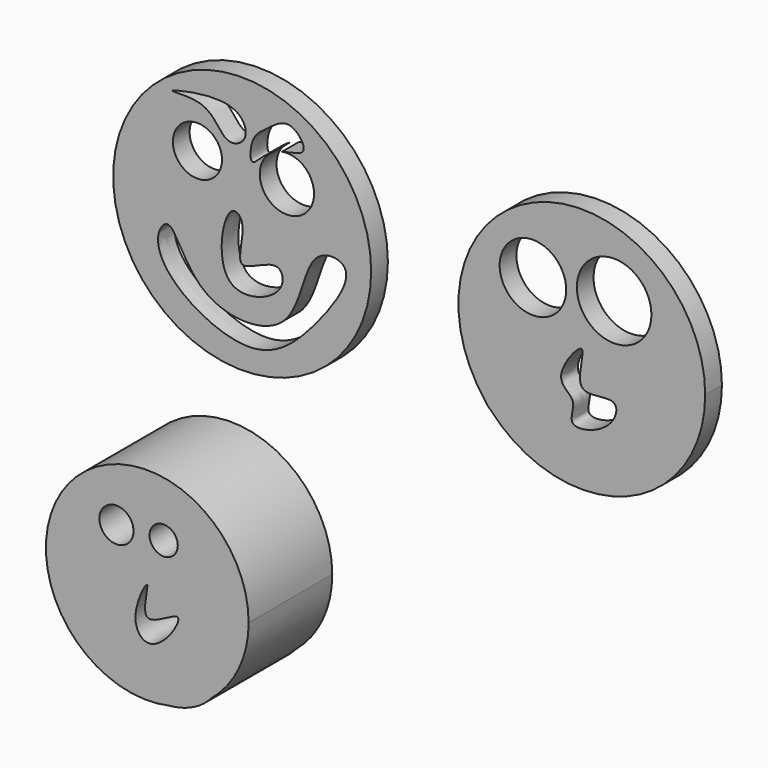
from build123d import *

# Parameters (mm, degrees)
F0_R     = 31.344620242
F0_R_2   = 5.9608346564
F1_DEPTH = 5.08
F2_R     = 8.0839661529
F2_R_2   = 9.0599704054
F3_DEPTH = 5.08
F4_R     = 4.1495553657
F4_R_2   = 3.4277283323
F5_DEPTH = 25.4


with BuildPart() as f1:
    # F0 (on Front) → F1 (new body)
    with BuildSketch(Plane.XZ):
        with Locations((-43.3764904737, 43.0745668709)):
            Circle(F0_R)
        with BuildLine():
            add(Edge.make_bspline(
                [(-63.7060776353, 34.2181138694), (-64.2475385526, 31.5744313854), (-60.9653740081, 23.7106953552), (-39.763106946, 13.1189450082), (-25.8152101721, 25.9599111261), (-14.0937532896, 42.9951370894), (-28.6111116451, 44.1775094088), (-28.9130609054, 20.7068919347), (-55.2767130819, 21.7639207371), (-60.2640850821, 40.0495008846), (-63.3702266873, 35.8579058472), (-63.7060776353, 34.2181138694)],
                knots=[0, 0, 0, 0, 0.0945447246, 0.2325769702, 0.3638224315, 0.4846381765, 0.5631081782, 0.6932315082, 0.827749096, 0.9413569209, 1, 1, 1, 1], degree=3))
        make_face(mode=Mode.SUBTRACT)
        with BuildLine():
            add(Edge.make_bspline(
                [(-43.3764904737, 43.0745668709), (-42.8318682053, 40.2460923234), (-46.6411439598, 30.2141343776), (-34.0210994444, 39.5406449456), (-32.2423066224, 30.1416863117), (-51.0284525604, 24.3154598866), (-47.6259900719, 47.6656528565), (-43.7067431857, 44.7897214731), (-43.3764904737, 43.0745668709)],
                knots=[0, 0, 0, 0, 0.170976366, 0.3408556962, 0.4668355041, 0.6704772589, 0.896321888, 1, 1, 1, 1], degree=3))
        make_face(mode=Mode.SUBTRACT)
        with Locations((-54.2457737029, 55.1515482366)):
            Circle(F0_R_2, mode=Mode.SUBTRACT)
        with BuildLine():
            add(Edge.make_bspline(
                [(-60.2842643857, 66.0208314657), (-60.1107834639, 66.4196465402), (-44.5466116357, 70.2867789582), (-41.0964462409, 61.1523820508), (-47.9605175036, 58.0409094503), (-50.8546259968, 67.1917166956), (-60.4105257065, 65.7305694731), (-60.2842643857, 66.0208314657)],
                knots=[0, 0, 0, 0, 0.268291344, 0.4514859458, 0.6013850432, 0.8047346124, 1, 1, 1, 1], degree=3))
        make_face(mode=Mode.SUBTRACT)
        with BuildLine():
            ThreePointArc((-33.7112318719, 61.6340417685), (-28.2921254108, 60.2216057144), (-25.9138471229, 55.1515482366))
            ThreePointArc((-25.9138471229, 55.1515482366), (-35.7755701881, 49.4252753332), (-35.860278308, 60.8286348256))
            add(Edge.make_bspline(
                [(-31.7020751536, 67.8323805332), (-33.68019312, 68.3764407949), (-37.4711253987, 65.1227105019), (-41.2593658879, 62.8197510601), (-41.7681046691, 54.4487049218), (-38.4544280806, 59.4979411468), (-35.860278308, 60.8286348256)],
                knots=[0, 0, 0, 0, 0.1710053831, 0.3251711552, 0.473830431, 0.6468987393, 0.6468987393, 0.6468987393, 0.6468987393], degree=3))
            add(Edge.make_bspline(
                [(-33.7112318719, 61.6340417685), (-31.3032859124, 62.3008733832), (-26.3263399688, 62.5681433433), (-29.8605678379, 67.3258935748), (-31.7020751536, 67.8323805332)],
                knots=[0.6922248826, 0.6922248826, 0.6922248826, 0.6922248826, 0.8408044063, 1, 1, 1, 1], degree=3))
        make_face(mode=Mode.SUBTRACT)
    extrude(amount=F1_DEPTH)


with BuildPart() as f3:
    # F2 (on Front) → F3 (new body)
    with BuildSketch(Plane.XZ):
        with BuildLine():
            ThreePointArc((17.0689116386, 22.7908349311), (50.0339169252, 15.1368753482), (69.1326096351, 43.0745668709))
            ThreePointArc((69.1326096351, 43.0745668709), (29.2455107261, 71.3746421251), (15.709500777, 24.3783512776))
            add(Edge.make_bspline(
                [(15.709500777, 24.3783512776), (13.9886718322, 27.6371143786), (16.1578343421, 33.5638101819), (19.2225277424, 35.0232459605)],
                knots=[0.9105023477, 0.9105023477, 0.9105023477, 0.9105023477, 1, 1, 1, 1], degree=3))
            add(Edge.make_bspline(
                [(19.2225277424, 35.0232459605), (22.3057148144, 36.4914885992), (30.4321798008, 30.272538021), (37.8403690916, 19.4848273104), (52.9263620672, 27.0670894141), (54.992545377, 32.3276788496), (60.7397003907, 39.6598489475), (66.3243458739, 26.518944605), (48.736352353, 18.103584846), (43.3890993335, 20.2889446518), (31.3480988785, 17.6881050826), (27.6348880369, 19.9706009761), (19.5707896294, 20.8180186211), (17.0689116386, 22.7908349311)],
                knots=[0, 0, 0, 0, 0.0900377195, 0.1834008338, 0.2818707686, 0.3499265188, 0.4154305076, 0.4920384294, 0.6001540328, 0.6679954856, 0.7563123889, 0.8182622336, 0.8935019829, 0.8935019829, 0.8935019829, 0.8935019829], degree=3))
        make_face()
        with BuildLine():
            add(Edge.make_bspline(
                [(39.1495451331, 43.0745668709), (38.3008606614, 43.628670546), (30.989640786, 34.4415064533), (38.678290816, 32.0849698118), (34.5070431615, 24.4689897974), (46.5833277739, 27.2676943148), (49.0935857226, 36.6963719209), (35.7037281431, 31.3075760704), (39.9527846681, 42.5501340657), (39.1495451331, 43.0745668709)],
                knots=[0, 0, 0, 0, 0.1631392249, 0.2878070632, 0.404889334, 0.5657519574, 0.6946873361, 0.8455964737, 1, 1, 1, 1], degree=3))
        make_face(mode=Mode.SUBTRACT)
        with Locations((27.2738486528, 54.547701031)):
            Circle(F2_R, mode=Mode.SUBTRACT)
        with Locations((46.9995848835, 55.9566766024)):
            Circle(F2_R_2, mode=Mode.SUBTRACT)
        with BuildLine():
            add(Edge.make_bspline(
                [(15.709500777, 24.3783512776), (13.9886718322, 27.6371143786), (16.1578343421, 33.5638101819), (19.2225277424, 35.0232459605)],
                knots=[0.9105023477, 0.9105023477, 0.9105023477, 0.9105023477, 1, 1, 1, 1], degree=3))
            ThreePointArc((15.709500777, 24.3783512776), (16.3753694063, 23.5727444716), (17.0689116386, 22.7908349311))
            add(Edge.make_bspline(
                [(19.2225277424, 35.0232459605), (22.3057148144, 36.4914885992), (30.4321798008, 30.272538021), (37.8403690916, 19.4848273104), (52.9263620672, 27.0670894141), (54.992545377, 32.3276788496), (60.7397003907, 39.6598489475), (66.3243458739, 26.518944605), (48.736352353, 18.103584846), (43.3890993335, 20.2889446518), (31.3480988785, 17.6881050826), (27.6348880369, 19.9706009761), (19.5707896294, 20.8180186211), (17.0689116386, 22.7908349311)],
                knots=[0, 0, 0, 0, 0.0900377195, 0.1834008338, 0.2818707686, 0.3499265188, 0.4154305076, 0.4920384294, 0.6001540328, 0.6679954856, 0.7563123889, 0.8182622336, 0.8935019829, 0.8935019829, 0.8935019829, 0.8935019829], degree=3))
        make_face()
        with BuildLine():
            ThreePointArc((17.0689116386, 22.7908349311), (16.3753694063, 23.5727444716), (15.709500777, 24.3783512776))
            add(Edge.make_bspline(
                [(17.0689116386, 22.7908349311), (16.5036141884, 23.2365912924), (16.0363777282, 23.7593388241), (15.709500777, 24.3783512776)],
                knots=[0.8935019829, 0.8935019829, 0.8935019829, 0.8935019829, 0.9105023477, 0.9105023477, 0.9105023477, 0.9105023477], degree=3))
        make_face()
    extrude(amount=F3_DEPTH)


with BuildPart() as f5:
    # F4 (on Front) → F5 (new body)
    with BuildSketch(Plane.XZ):
        with BuildLine():
            ThreePointArc((-34.5255151487, -47.1963799309), (-27.9050752225, -38.693835185), (-25.5478758466, -28.1787458807))
            ThreePointArc((-25.5478758466, -28.1787458807), (-69.3610788512, -12.7259939053), (-44.9365400764, -52.2459408533))
            add(Edge.make_bspline(
                [(-44.9365400764, -52.2459408533), (-49.2837797904, -52.6463934312), (-61.6535409213, -49.8947182755), (-69.4189569496, -37.3686996309), (-68.5368701816, -36.6335101426)],
                knots=[0.7272921309, 0.7272921309, 0.7272921309, 0.7272921309, 0.8315662656, 1, 1, 1, 1], degree=3))
            add(Edge.make_bspline(
                [(-68.5368701816, -36.6335101426), (-67.7216535991, -35.9540546923), (-55.9529451165, -46.9652926057), (-40.4224222256, -46.1821419936), (-28.7013614139, -26.7836030701), (-30.53796086, -42.484275482), (-34.5255151487, -47.1963799309)],
                knots=[0, 0, 0, 0, 0.1556649281, 0.323373754, 0.4736128931, 0.6287225845, 0.6287225845, 0.6287225845, 0.6287225845], degree=3))
        make_face()
        with BuildLine():
            add(Edge.make_bspline(
                [(-50.179541111, -28.1787458807), (-50.450820468, -27.5235999644), (-54.8287861026, -36.0495675093), (-50.3745258907, -42.3361607939), (-44.3180918736, -37.5547069064), (-40.7418241351, -29.8233097627), (-53.1562139338, -39.4985361829), (-49.9252646218, -28.7928294785), (-50.179541111, -28.1787458807)],
                knots=[0, 0, 0, 0, 0.182782907, 0.3403235584, 0.5128979328, 0.6481423549, 0.8286733041, 1, 1, 1, 1], degree=3))
        make_face(mode=Mode.SUBTRACT)
        with Locations((-57.6675869524, -17.712906003)):
            Circle(F4_R, mode=Mode.SUBTRACT)
        with Locations((-46.1944527924, -17.3103399575)):
            Circle(F4_R_2, mode=Mode.SUBTRACT)
        with BuildLine():
            add(Edge.make_bspline(
                [(-44.9365400764, -52.2459408533), (-49.2837797904, -52.6463934312), (-61.6535409213, -49.8947182755), (-69.4189569496, -37.3686996309), (-68.5368701816, -36.6335101426)],
                knots=[0.7272921309, 0.7272921309, 0.7272921309, 0.7272921309, 0.8315662656, 1, 1, 1, 1], degree=3))
            ThreePointArc((-44.9365400764, -52.2459408533), (-39.4303108732, -50.3411686497), (-34.5255151487, -47.1963799309))
            add(Edge.make_bspline(
                [(-68.5368701816, -36.6335101426), (-67.7216535991, -35.9540546923), (-55.9529451165, -46.9652926057), (-40.4224222256, -46.1821419936), (-28.7013614139, -26.7836030701), (-30.53796086, -42.484275482), (-34.5255151487, -47.1963799309)],
                knots=[0, 0, 0, 0, 0.1556649281, 0.323373754, 0.4736128931, 0.6287225845, 0.6287225845, 0.6287225845, 0.6287225845], degree=3))
        make_face()
        with BuildLine():
            ThreePointArc((-34.5255151487, -47.1963799309), (-39.4303108732, -50.3411686497), (-44.9365400764, -52.2459408533))
            add(Edge.make_bspline(
                [(-34.5255151487, -47.1963799309), (-37.0595374513, -50.1908414231), (-40.8271274454, -51.8673960777), (-44.9365400764, -52.2459408533)],
                knots=[0.6287225845, 0.6287225845, 0.6287225845, 0.6287225845, 0.7272921309, 0.7272921309, 0.7272921309, 0.7272921309], degree=3))
        make_face()
    extrude(amount=F5_DEPTH)


solid = Compound([f1.part, f3.part, f5.part])
